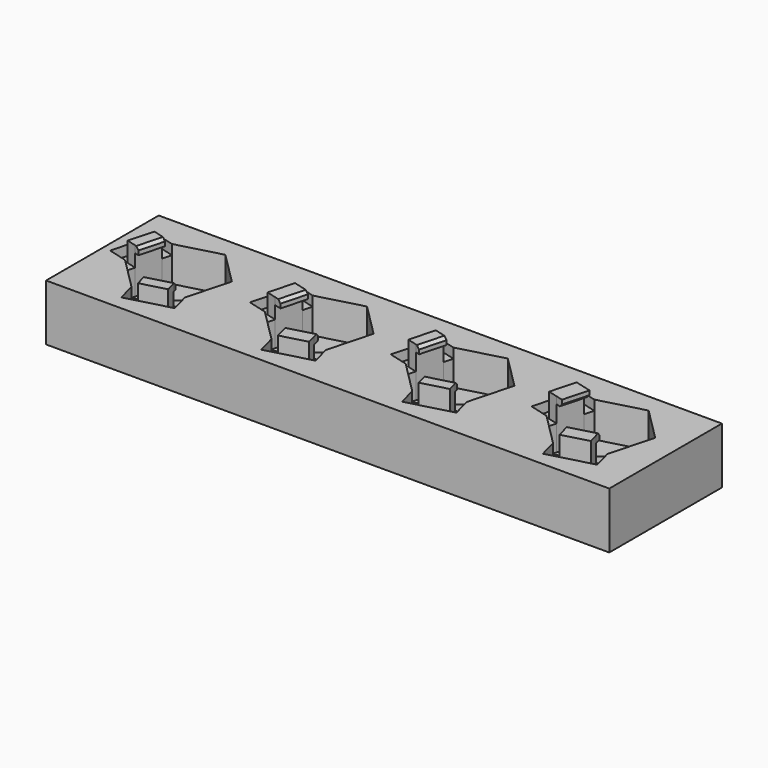
from build123d import *

# Parameters (mm, degrees)
F0_W      = 40
F0_H      = 10
F1_DEPTH  = 4
F2_R      = 1.25
F3_DEPTH  = 2.5
F4_DEPTH  = 0.7
F5_DEPTH  = 0.2
F6_DEPTH  = 0.5
F7_DEPTH  = 25
F9_DEPTH  = 0.5
F11_DEPTH = 0.5
F12_SIZE  = 0.2


with BuildPart() as f1:
    # F0 (on Top) → F1 (new body)
    with BuildSketch(Plane.XY):
        with Locations((0.5716348439, 33.2741251273)):
            Rectangle(F0_W, F0_H)
    extrude(amount=F1_DEPTH)

    # F2 (on face) → F3 (cut)
    with BuildSketch(Plane.XY.offset(4)):
        Polygon((-17.5513593567, 32.9373213533), (-15.2651689301, 30.6511309267), (-14.5890208517, 30.8323042582), (-14.6666665652, 31.1220820061), (-12.8959685214, 31.596539117), (-12.8183228079, 31.3067613691), (-12.1421747295, 31.4879347007), (-11.3053709554, 34.6109289013), (-13.591561382, 36.8971193279), (-16.7145555827, 36.0603155539), (-16.8957289142, 35.3841674755), (-16.6059511663, 35.3065217619), (-17.0804082772, 33.5358237181), (-17.3701860251, 33.6134694317), align=None)
        with Locations((-14.4283651561, 33.7741251273)):
            Circle(F2_R, mode=Mode.SUBTRACT)
        Polygon((-14.6666665652, 31.1220820061), (-14.5890208517, 30.8323042582), (-12.8183228079, 31.3067613691), (-12.8959685214, 31.596539117), align=None)
        Polygon((-16.8957289142, 35.3841674755), (-17.3701860251, 33.6134694317), (-17.0804082772, 33.5358237181), (-16.6059511663, 35.3065217619), align=None)
        Polygon((-7.6071271103, 32.9223784287), (-5.2801118546, 30.5953631731), (-4.6039637762, 30.7765365046), (-4.7074913943, 31.1629068352), (-2.8810255969, 31.6523068706), (-2.7774979788, 31.2659365401), (-2.1013499004, 31.4471098716), (-1.2496032019, 34.6258718258), (-3.5766184575, 36.9528870815), (-6.7553804117, 36.1011403829), (-6.9365537433, 35.4249923045), (-6.5501834128, 35.3214646865), (-7.0395834482, 33.4949988891), (-7.4259537787, 33.5985265071), align=None)
        with Locations((-4.4283651561, 33.7741251273)):
            Circle(F2_R, mode=Mode.SUBTRACT)
        Polygon((-4.7074913943, 31.1629068352), (-4.6039637762, 30.7765365046), (-2.7774979788, 31.2659365401), (-2.8810255969, 31.6523068706), align=None)
        Polygon((-6.9365537433, 35.4249923045), (-7.4259537787, 33.5985265071), (-7.0395834482, 33.4949988891), (-6.5501834128, 35.3214646865), align=None)
        Polygon((2.3928728897, 32.9223784287), (4.7198881454, 30.5953631731), (5.3960362238, 30.7765365046), (5.2925086057, 31.1629068352), (7.1189744031, 31.6523068706), (7.2225020212, 31.2659365401), (7.8986500996, 31.4471098716), (8.7503967981, 34.6258718258), (6.4233815425, 36.9528870815), (3.2446195883, 36.1011403829), (3.0634462567, 35.4249923045), (3.4498165872, 35.3214646865), (2.9604165518, 33.4949988891), (2.5740462213, 33.5985265071), align=None)
        with Locations((5.5716348439, 33.7741251273)):
            Circle(F2_R, mode=Mode.SUBTRACT)
        Polygon((3.0634462567, 35.4249923045), (2.5740462213, 33.5985265071), (2.9604165518, 33.4949988891), (3.4498165872, 35.3214646865), align=None)
        Polygon((5.2925086057, 31.1629068352), (5.3960362238, 30.7765365046), (7.2225020212, 31.2659365401), (7.1189744031, 31.6523068706), align=None)
        Polygon((12.3928728897, 32.9223784287), (14.7198881454, 30.5953631731), (15.3960362238, 30.7765365046), (15.2666267012, 31.2594994178), (17.0930924986, 31.7488994532), (17.2225020212, 31.2659365401), (17.8986500996, 31.4471098716), (18.7503967981, 34.6258718258), (16.4233815425, 36.9528870815), (13.2446195883, 36.1011403829), (13.0634462567, 35.4249923045), (13.5464091699, 35.295582782), (13.0570091345, 33.4691169846), (12.5740462213, 33.5985265071), align=None)
        with Locations((15.5716348439, 33.7741251273)):
            Circle(F2_R, mode=Mode.SUBTRACT)
        Polygon((15.2666267012, 31.2594994178), (15.3960362238, 30.7765365046), (17.2225020212, 31.2659365401), (17.0930924986, 31.7488994532), align=None)
        Polygon((13.0634462567, 35.4249923045), (12.5740462213, 33.5985265071), (13.0570091345, 33.4691169846), (13.5464091699, 35.295582782), align=None)
    extrude(amount=-F3_DEPTH, mode=Mode.SUBTRACT)

    # F2 (on face) → F4 (cut)
    with BuildSketch(Plane.XY.offset(4)):
        Polygon((-18.9036555135, 33.2996680164), (-17.5513593567, 32.9373213533), (-17.3701860251, 33.6134694317), (-18.0463341035, 33.7946427632), (-17.5718769926, 35.565340807), (-16.8957289142, 35.3841674755), (-16.7145555827, 36.0603155539), (-18.0668517395, 36.422662217), align=None)
        Polygon((-14.5890208517, 30.8323042582), (-15.2651689301, 30.6511309267), (-14.9028222669, 29.2988347699), (-11.7798280663, 30.1356385439), (-12.1421747295, 31.4879347007), (-12.8183228079, 31.3067613691), (-12.6371494763, 30.6306132907), (-14.4078475201, 30.1561561798), align=None)
        Polygon((-4.6039637762, 30.7765365046), (-5.2801118546, 30.5953631731), (-4.9177651915, 29.2430670163), (-1.7390032373, 30.0948137148), (-2.1013499004, 31.4471098716), (-2.7774979788, 31.2659365401), (-2.5963246472, 30.5897884617), (-4.4227904446, 30.1003884262), align=None)
        Polygon((-8.9594232671, 33.2847250919), (-7.6071271103, 32.9223784287), (-7.4259537787, 33.5985265071), (-8.1021018571, 33.7796998387), (-7.6127018217, 35.6061656361), (-6.9365537433, 35.4249923045), (-6.7553804117, 36.1011403829), (-8.1076765685, 36.4634870461), align=None)
        Polygon((1.0405767329, 33.2847250919), (2.3928728897, 32.9223784287), (2.5740462213, 33.5985265071), (1.8978981429, 33.7796998387), (2.3872981783, 35.6061656361), (3.0634462567, 35.4249923045), (3.2446195883, 36.1011403829), (1.8923234315, 36.4634870461), align=None)
        Polygon((5.3960362238, 30.7765365046), (4.7198881454, 30.5953631731), (5.0822348085, 29.2430670163), (8.2609967627, 30.0948137148), (7.8986500996, 31.4471098716), (7.2225020212, 31.2659365401), (7.4036753528, 30.5897884617), (5.5772095554, 30.1003884262), align=None)
        Polygon((15.3960362238, 30.7765365046), (14.7198881454, 30.5953631731), (15.0822348085, 29.2430670163), (18.2609967627, 30.0948137148), (17.8986500996, 31.4471098716), (17.2225020212, 31.2659365401), (17.4036753528, 30.5897884617), (15.5772095554, 30.1003884262), align=None)
        Polygon((11.0405767329, 33.2847250919), (12.3928728897, 32.9223784287), (12.5740462213, 33.5985265071), (11.8978981429, 33.7796998387), (12.3872981783, 35.6061656361), (13.0634462567, 35.4249923045), (13.2446195883, 36.1011403829), (11.8923234315, 36.4634870461), align=None)
    extrude(amount=-F4_DEPTH, mode=Mode.SUBTRACT)

    # F2 (on face) → F5 (join)
    with BuildSketch(Plane.XY.offset(4)):
        Polygon((-18.0463341035, 33.7946427632), (-17.3701860251, 33.6134694317), (-16.8957289142, 35.3841674755), (-17.5718769926, 35.565340807), align=None)
        Polygon((-12.8183228079, 31.3067613691), (-14.5890208517, 30.8323042582), (-14.4078475201, 30.1561561798), (-12.6371494763, 30.6306132907), align=None)
        Polygon((-2.7774979788, 31.2659365401), (-4.6039637762, 30.7765365046), (-4.4227904446, 30.1003884262), (-2.5963246472, 30.5897884617), align=None)
        Polygon((-8.1021018571, 33.7796998387), (-7.4259537787, 33.5985265071), (-6.9365537433, 35.4249923045), (-7.6127018217, 35.6061656361), align=None)
    extrude(amount=F5_DEPTH)

    # F2 (on face) → F6 (join)
    with BuildSketch(Plane.XY.offset(4)):
        Polygon((1.8978981429, 33.7796998387), (2.5740462213, 33.5985265071), (3.0634462567, 35.4249923045), (2.3872981783, 35.6061656361), align=None)
        Polygon((7.2225020212, 31.2659365401), (5.3960362238, 30.7765365046), (5.5772095554, 30.1003884262), (7.4036753528, 30.5897884617), align=None)
        Polygon((11.8978981429, 33.7796998387), (12.5740462213, 33.5985265071), (13.0634462567, 35.4249923045), (12.3872981783, 35.6061656361), align=None)
        Polygon((17.2225020212, 31.2659365401), (15.3960362238, 30.7765365046), (15.5772095554, 30.1003884262), (17.4036753528, 30.5897884617), align=None)
    extrude(amount=F6_DEPTH)

    # F7 (cut): faces of the model
    f7_faces = [f1.faces().sort_by_distance(p)[0] for p in [
        (-14.4283651561, 33.7741251273, 4),
        (-4.4283651561, 33.7741251273, 4),
        (5.5716348439, 33.7741251273, 4),
        (15.5716348439, 33.7741251273, 4),
    ]]
    extrude(f7_faces, amount=-F7_DEPTH, mode=Mode.SUBTRACT)

    # F8 (on face) → F9 (join)
    with BuildSketch(Plane.XY.offset(4.2)):
        Polygon((-17.5718769926, 35.565340807), (-18.0463341035, 33.7946427632), (-17.3701860251, 33.6134694317), (-16.8957289142, 35.3841674755), align=None)
        Polygon((-16.8957289142, 35.3841674755), (-17.3701860251, 33.6134694317), (-17.0804082772, 33.5358237181), (-16.6059511663, 35.3065217619), align=None)
        Polygon((-14.5890208517, 30.8323042582), (-14.4078475201, 30.1561561798), (-12.6371494763, 30.6306132907), (-12.8183228079, 31.3067613691), (-12.8959685214, 31.596539117), (-14.6666665652, 31.1220820061), align=None)
        Polygon((-7.6127018217, 35.6061656361), (-8.1021018571, 33.7796998387), (-7.4259537787, 33.5985265071), (-6.9365537433, 35.4249923045), align=None)
        Polygon((-6.9365537433, 35.4249923045), (-7.4259537787, 33.5985265071), (-6.9429908655, 33.4691169846), (-6.4535908301, 35.295582782), align=None)
        Polygon((-4.6039637762, 30.7765365046), (-4.4227904446, 30.1003884262), (-2.5963246472, 30.5897884617), (-2.7774979788, 31.2659365401), align=None)
        Polygon((-4.7333732988, 31.2594994178), (-4.6039637762, 30.7765365046), (-2.7774979788, 31.2659365401), (-2.9069075014, 31.7488994532), align=None)
    extrude(amount=F9_DEPTH)

    # F10 (on face) → F11 (join)
    with BuildSketch(Plane.XY.offset(4.5)):
        Polygon((2.3872981783, 35.6061656361), (1.8978981429, 33.7796998387), (2.5740462213, 33.5985265071), (3.0634462567, 35.4249923045), align=None)
        Polygon((3.0634462567, 35.4249923045), (2.5740462213, 33.5985265071), (2.8638239692, 33.5208807936), (3.3532240046, 35.347346591), align=None)
        Polygon((5.3960362238, 30.7765365046), (5.5772095554, 30.1003884262), (7.4036753528, 30.5897884617), (7.2225020212, 31.2659365401), align=None)
        Polygon((5.3183905103, 31.0663142525), (5.3960362238, 30.7765365046), (7.2225020212, 31.2659365401), (7.1448563077, 31.5557142879), align=None)
        Polygon((12.3872981783, 35.6061656361), (11.8978981429, 33.7796998387), (12.5740462213, 33.5985265071), (13.0634462567, 35.4249923045), align=None)
        Polygon((13.0634462567, 35.4249923045), (12.5740462213, 33.5985265071), (13.0570091345, 33.4691169846), (13.5464091699, 35.295582782), align=None)
        Polygon((15.3960362238, 30.7765365046), (15.5772095554, 30.1003884262), (17.4036753528, 30.5897884617), (17.2225020212, 31.2659365401), align=None)
        Polygon((15.2666267012, 31.2594994178), (15.3960362238, 30.7765365046), (17.2225020212, 31.2659365401), (17.0930924986, 31.7488994532), align=None)
    extrude(amount=F11_DEPTH)

    # F12
    f12_edges = [f1.edges().sort_by_distance(p)[0] for p in [
        (-16.84318, 34.421173, 4.7),
        (-13.781318, 31.359311, 4.7),
        (-6.698291, 34.38235, 4.7),
        (-3.82014, 31.504199, 4.7),
        (3.108524, 34.434114, 5),
        (6.231623, 31.311014, 5),
        (13.301709, 34.38235, 4.5),
        (16.17986, 31.504199, 5),
    ]]
    chamfer(f12_edges, length=F12_SIZE)


solid = f1.part
